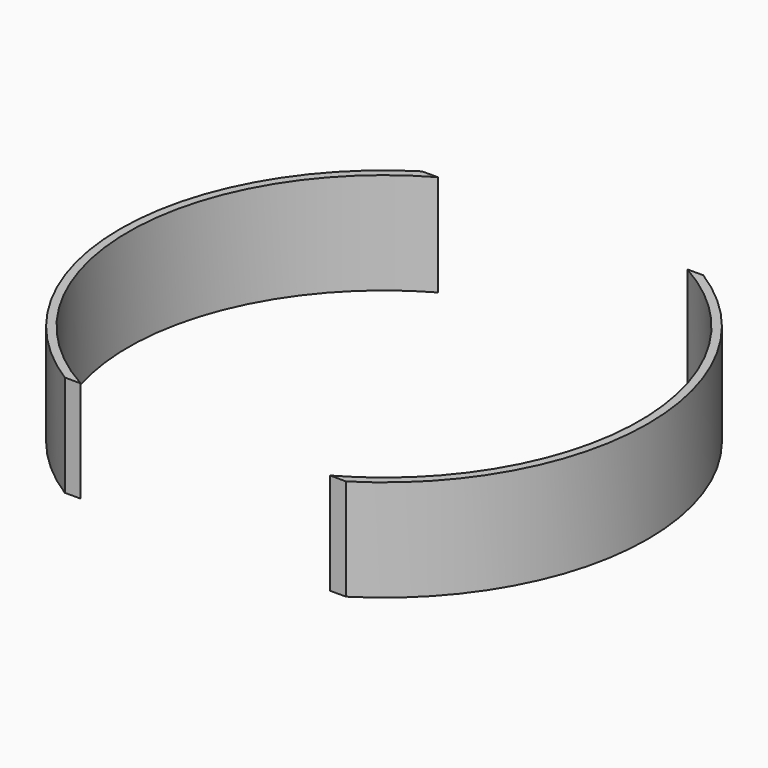
from build123d import *

# Parameters (mm, degrees)
F1_DEPTH = 50


with BuildPart() as f1:
    # F0 (on Top) → F1 (new body)
    with BuildSketch(Plane.XY):
        with BuildLine():
            Line((-61.449166, 110), (-69.282032, 110))
            ThreePointArc((-69.282032, 110), (-130, 0), (-69.282032, -110))
            Line((-69.282032, -110), (-61.449166, -110))
            ThreePointArc((-61.449166, -110), (-126, 0), (-61.449166, 110))
        make_face()
        with BuildLine():
            Line((61.449166, -110), (69.282032, -110))
            ThreePointArc((69.282032, -110), (130, 0), (69.282032, 110))
            Line((69.282032, 110), (61.449166, 110))
            ThreePointArc((61.449166, 110), (126, 0), (61.449166, -110))
        make_face()
    extrude(amount=F1_DEPTH)


solid = f1.part
